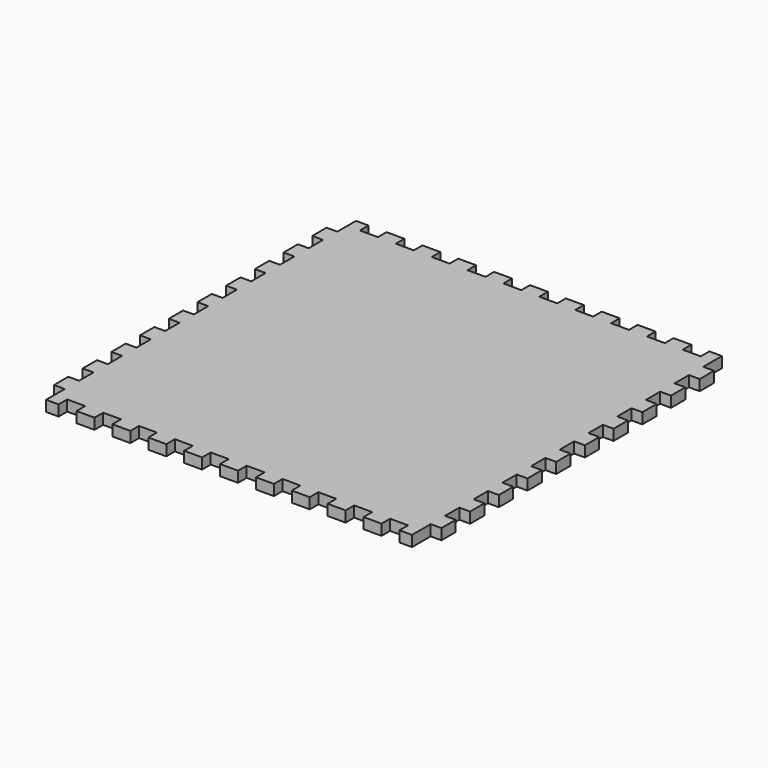
from build123d import *

# Parameters (mm, degrees)
F0_W     = 102
F0_H     = 102
F1_DEPTH = 3
F2_W     = 5
F2_H     = 3
F2_W_2   = 3.5
F3_DEPTH = 3
F4_W     = 3
F4_H     = 5
F5_DEPTH = 3


with BuildPart() as f1:
    # F0 (on Top) → F1 (new body)
    with BuildSketch(Plane.XY):
        Rectangle(F0_W, F0_H)
    extrude(amount=F1_DEPTH)

    # F2 (on face) → F3 (join, through all)
    with BuildSketch(Plane.XY.offset(3)):
        with Locations((0, 52.5)):
            Rectangle(F2_W, F2_H)
        with Locations((10, 52.5)):
            Rectangle(F2_W, F2_H)
        with Locations((20, 52.5)):
            Rectangle(F2_W, F2_H)
        with Locations((30, 52.5)):
            Rectangle(F2_W, F2_H)
        with Locations((40, 52.5)):
            Rectangle(F2_W, F2_H)
        with Locations((-10, 52.5)):
            Rectangle(F2_W, F2_H)
        with Locations((-30, 52.5)):
            Rectangle(F2_W, F2_H)
        with Locations((-40, 52.5)):
            Rectangle(F2_W, F2_H)
        with Locations((-20, 52.5)):
            Rectangle(F2_W, F2_H)
        with Locations((-10, -52.5)):
            Rectangle(F2_W, F2_H)
        with Locations((0, -52.5)):
            Rectangle(F2_W, F2_H)
        with Locations((10, -52.5)):
            Rectangle(F2_W, F2_H)
        with Locations((40, -52.5)):
            Rectangle(F2_W, F2_H)
        with Locations((-20, -52.5)):
            Rectangle(F2_W, F2_H)
        with Locations((-30, -52.5)):
            Rectangle(F2_W, F2_H)
        with Locations((-40, -52.5)):
            Rectangle(F2_W, F2_H)
        with Locations((20, -52.5)):
            Rectangle(F2_W, F2_H)
        with Locations((30, -52.5)):
            Rectangle(F2_W, F2_H)
        with Locations((-49.25, 52.5)):
            Rectangle(F2_W_2, F2_H)
        with Locations((49.25, 52.5)):
            Rectangle(F2_W_2, F2_H)
        with Locations((49.25, -52.5)):
            Rectangle(F2_W_2, F2_H)
        with Locations((-49.25, -52.5)):
            Rectangle(F2_W_2, F2_H)
    extrude(amount=-F3_DEPTH)

    # F4 (on face) → F5 (join)
    with BuildSketch(Plane.XY.offset(3)):
        with Locations((52.5, -5)):
            Rectangle(F4_W, F4_H)
        with Locations((52.5, -15)):
            Rectangle(F4_W, F4_H)
        with Locations((52.5, -25)):
            Rectangle(F4_W, F4_H)
        with Locations((52.5, -35)):
            Rectangle(F4_W, F4_H)
        with Locations((52.5, -45)):
            Rectangle(F4_W, F4_H)
        with Locations((52.5, 15)):
            Rectangle(F4_W, F4_H)
        with Locations((52.5, 45)):
            Rectangle(F4_W, F4_H)
        with Locations((52.5, 25)):
            Rectangle(F4_W, F4_H)
        with Locations((52.5, 5)):
            Rectangle(F4_W, F4_H)
        with Locations((52.5, 35)):
            Rectangle(F4_W, F4_H)
        with Locations((-52.5, -15)):
            Rectangle(F4_W, F4_H)
        with Locations((-52.5, -5)):
            Rectangle(F4_W, F4_H)
        with Locations((-52.5, 15)):
            Rectangle(F4_W, F4_H)
        with Locations((-52.5, 35)):
            Rectangle(F4_W, F4_H)
        with Locations((-52.5, -25)):
            Rectangle(F4_W, F4_H)
        with Locations((-52.5, 25)):
            Rectangle(F4_W, F4_H)
        with Locations((-52.5, -35)):
            Rectangle(F4_W, F4_H)
        with Locations((-52.5, 45)):
            Rectangle(F4_W, F4_H)
        with Locations((-52.5, -45)):
            Rectangle(F4_W, F4_H)
        with Locations((-52.5, 5)):
            Rectangle(F4_W, F4_H)
    extrude(amount=-F5_DEPTH)


solid = f1.part
